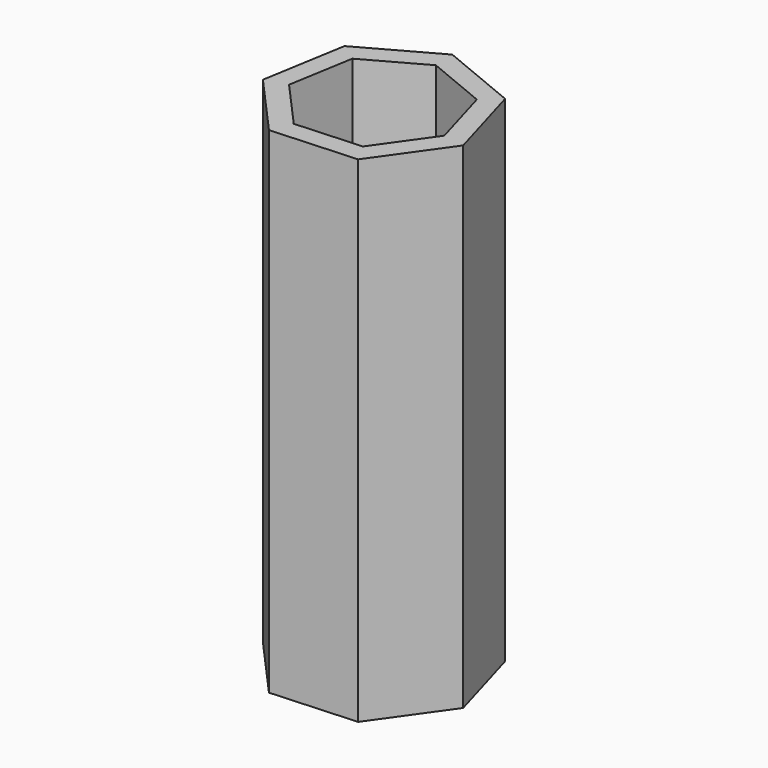
from build123d import *

# Parameters (mm, degrees)
F1_DEPTH = 870
F2_T     = -35


with BuildPart() as f1:
    # F0 (on Top) → F1 (new body)
    with BuildSketch(Plane.XY):
        Polygon((-9.853609, 172.576288), (-141.069199, 99.895694), (-166.056806, -48.008395), (-66.000251, -159.761183), (83.75584, -151.210542), (170.442074, -28.795279), (128.781951, 115.303417), align=None)
    extrude(amount=F1_DEPTH)

    # F2
    f2_openings = [f1.faces().sort_by_distance(p)[0] for p in [
        (0, 0, 870),
    ]]
    offset(amount=F2_T, openings=f2_openings)


solid = f1.part
